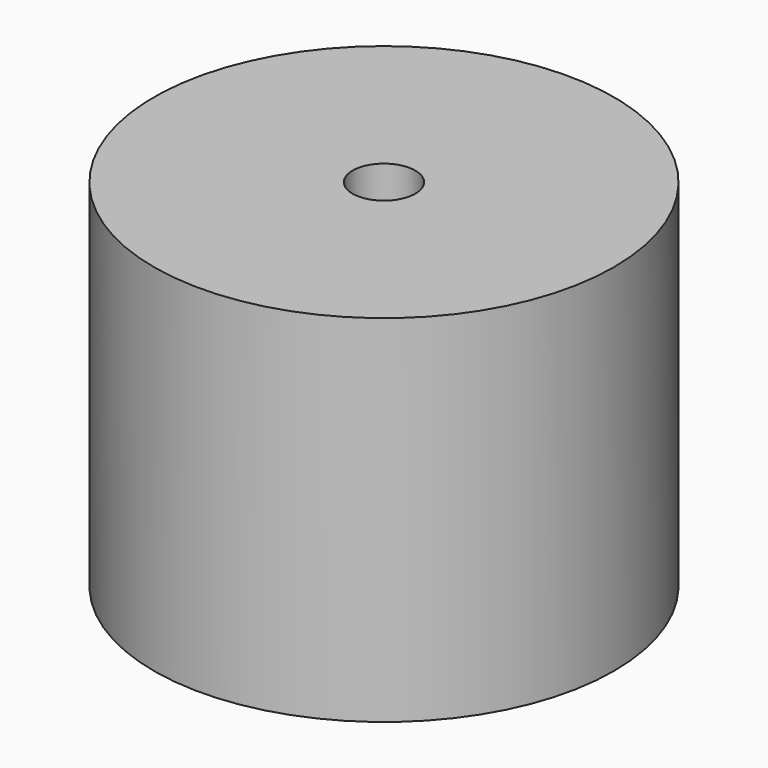
from build123d import *

# Parameters (mm, degrees)
F0_R     = 5.5
F0_R_2   = 4.25
F1_DEPTH = 8.5
F2_DEPTH = 7
F3_D     = 1.5


with BuildPart() as f1:
    # F0 (on Top) → F1 (new body)
    with BuildSketch(Plane.XY):
        with Locations((0, -0.5465864819)):
            Circle(F0_R)
        with Locations((0, -0.5465864819)):
            Circle(F0_R_2, mode=Mode.SUBTRACT)
        with Locations((0, -0.5465864819)):
            Circle(F0_R_2)
    extrude(amount=F1_DEPTH)

    # F0 (on Top) → F2 (cut)
    with BuildSketch(Plane.XY):
        with Locations((0, -0.5465864819)):
            Circle(F0_R_2)
    extrude(amount=F2_DEPTH, mode=Mode.SUBTRACT)

    # F3 (through all)
    with Locations(Plane(origin=(0, 0, 0), x_dir=(1, 0, 0), z_dir=(0, 0, -1))):
        with Locations((0, 0.5465864819)):
            Hole(F3_D / 2)


solid = f1.part
